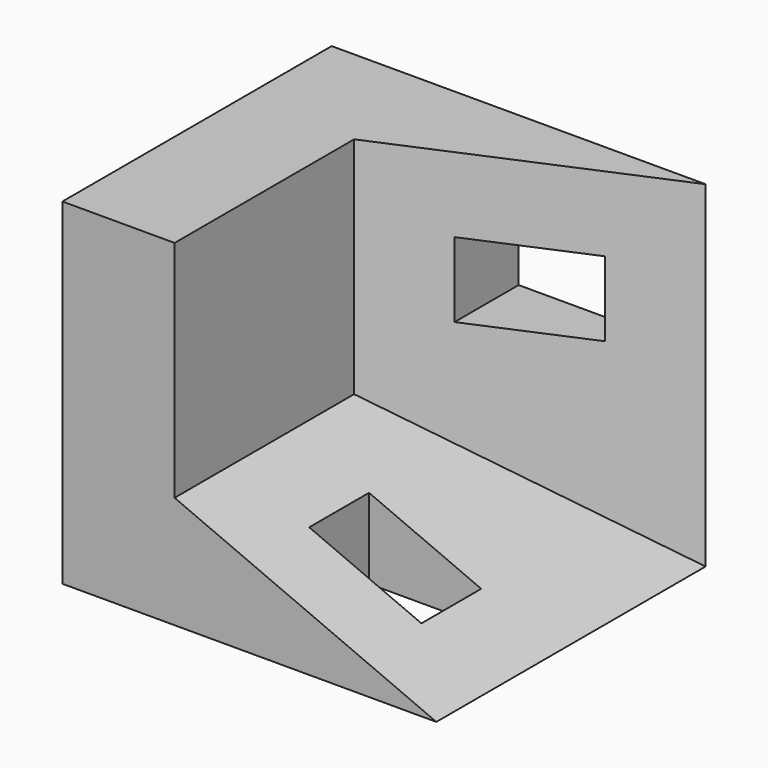
from build123d import *

# Parameters (mm, degrees)
F1_DEPTH = 9
F3_DEPTH = 9
F4_W     = 3
F4_H     = 2
F5_DEPTH = 9.001
F6_W     = 3
F6_H     = 2
F7_DEPTH = 9.001


with BuildPart() as f1:
    # F0 (on Front) → F1 (new body)
    with BuildSketch(Plane.XZ):
        Polygon((3, 9), (0, 9), (0, 0), (10, 0), (3, 3), align=None)
    extrude(amount=-F1_DEPTH)

    # F2 (on face) → F3 (join)
    with BuildSketch(Plane.XY.offset(9)):
        Polygon((0, 9), (0, 0), (3, 0), (3, 6), (3, 9), align=None)
        Polygon((3, 9), (3, 6), (10, 9), align=None)
    extrude(amount=-F3_DEPTH)

    # F4 (on face) → F5 (cut, through all)
    with BuildSketch(Plane(origin=(0, 9, 0), x_dir=(-1, 0, 0), z_dir=(0, 1, 0))):
        with Locations((-6.5, 6)):
            Rectangle(F4_W, F4_H)
    extrude(amount=-F5_DEPTH, mode=Mode.SUBTRACT)

    # F6 (on face) → F7 (cut, through all)
    with BuildSketch(Plane(origin=(0, 0, 0), x_dir=(1, 0, 0), z_dir=(0, 0, -1))):
        with Locations((6.5, -3)):
            Rectangle(F6_W, F6_H)
    extrude(amount=-F7_DEPTH, mode=Mode.SUBTRACT)


solid = f1.part
